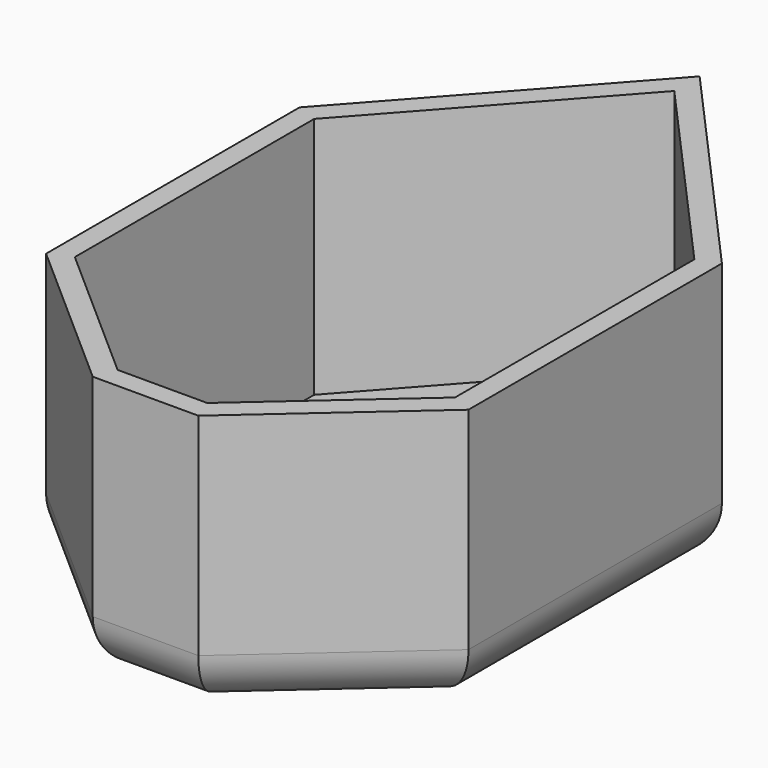
from build123d import *

# Parameters (mm, degrees)
F0_W     = 40
F0_H     = 30
F1_DEPTH = 25
F2_T     = -2
F3_R     = 5


with BuildPart() as f1:
    # F0 (on Top) → F1 (new body)
    with BuildSketch(Plane.XY):
        Polygon((0, 30), (-20, 52.36068), (-40, 30), align=None)
        with Locations((-20, 15)):
            Rectangle(F0_W, F0_H)
        Polygon((0, 0), (-40, 0), (-25, -13.228757), (-15, -13.228757), align=None)
    extrude(amount=F1_DEPTH)

    # F2
    f2_openings = [f1.faces().sort_by_distance(p)[0] for p in [
        (-20, 16.683957, 25),
    ]]
    offset(amount=F2_T, openings=f2_openings)

    # F3
    f3_edges = [f1.edges().sort_by_distance(p)[0] for p in [
        (-40, 15, 0),
        (-30, 41.18034, 0),
        (-10, 41.18034, 0),
        (0, 15, 0),
        (-32.5, -6.614378, 0),
        (-7.5, -6.614378, 0),
        (-20, -13.228757, 0),
    ]]
    fillet(f3_edges, radius=F3_R)


solid = f1.part
